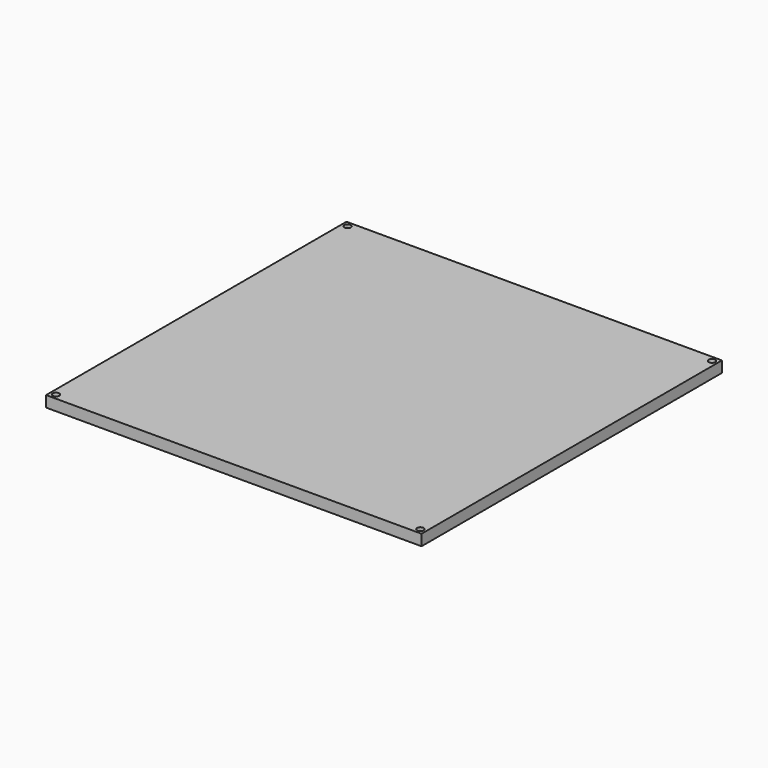
from build123d import *

# Parameters (mm, degrees)
F0_W     = 160.000002
F0_H     = 160.000002
F1_DEPTH = 5


with BuildPart() as f1:
    # F0 (on Top) → F1 (new body)
    with BuildSketch(Plane.XY):
        with BuildLine():
            Line((-85, -85), (85, -85))
            Line((85, -85), (83.56066, -83.56066))
            ThreePointArc((83.56066, -83.56066), (81.43934, -83.56066), (81.43934, -81.43934))
            Line((81.43934, -81.43934), (80.000001, -80.000001))
            Line((80.000001, -80.000001), (-80.000001, -80.000001))
            Line((-80.000001, -80.000001), (-81.43934, -81.43934))
            ThreePointArc((-81.43934, -81.43934), (-81.114181, -81.925975), (-81, -82.5))
            ThreePointArc((-81, -82.5), (-81.925975, -83.88582), (-83.56066, -83.56066))
            Line((-83.56066, -83.56066), (-85, -85))
        make_face()
        with BuildLine():
            Line((-85, 85), (-85, -85))
            Line((-85, -85), (-83.56066, -83.56066))
            ThreePointArc((-83.56066, -83.56066), (-83.56066, -81.43934), (-81.43934, -81.43934))
            Line((-81.43934, -81.43934), (-80.000001, -80.000001))
            Line((-80.000001, -80.000001), (-80.000001, 80.000001))
            Line((-80.000001, 80.000001), (-81.43934, 81.43934))
            ThreePointArc((-81.43934, 81.43934), (-83.56066, 81.43934), (-83.56066, 83.56066))
            Line((-83.56066, 83.56066), (-85, 85))
        make_face()
        with BuildLine():
            Line((83.56066, -83.56066), (85, -85))
            Line((85, -85), (85, 85))
            Line((85, 85), (83.56066, 83.56066))
            ThreePointArc((83.56066, 83.56066), (83.88582, 83.074025), (84, 82.5))
            ThreePointArc((84, 82.5), (83.074025, 81.114181), (81.43934, 81.43934))
            Line((81.43934, 81.43934), (80.000001, 80.000001))
            Line((80.000001, 80.000001), (80.000001, -80.000001))
            Line((80.000001, -80.000001), (81.43934, -81.43934))
            ThreePointArc((81.43934, -81.43934), (83.074025, -81.114181), (84, -82.5))
            ThreePointArc((84, -82.5), (83.88582, -83.074025), (83.56066, -83.56066))
        make_face()
        with BuildLine():
            Line((83.56066, 83.56066), (85, 85))
            Line((85, 85), (-85, 85))
            Line((-85, 85), (-83.56066, 83.56066))
            ThreePointArc((-83.56066, 83.56066), (-81.925975, 83.88582), (-81, 82.5))
            ThreePointArc((-81, 82.5), (-81.114181, 81.925975), (-81.43934, 81.43934))
            Line((-81.43934, 81.43934), (-80.000001, 80.000001))
            Line((-80.000001, 80.000001), (80.000001, 80.000001))
            Line((80.000001, 80.000001), (81.43934, 81.43934))
            ThreePointArc((81.43934, 81.43934), (81.43934, 83.56066), (83.56066, 83.56066))
        make_face()
        Rectangle(F0_W, F0_H)
    extrude(amount=F1_DEPTH)


solid = f1.part
